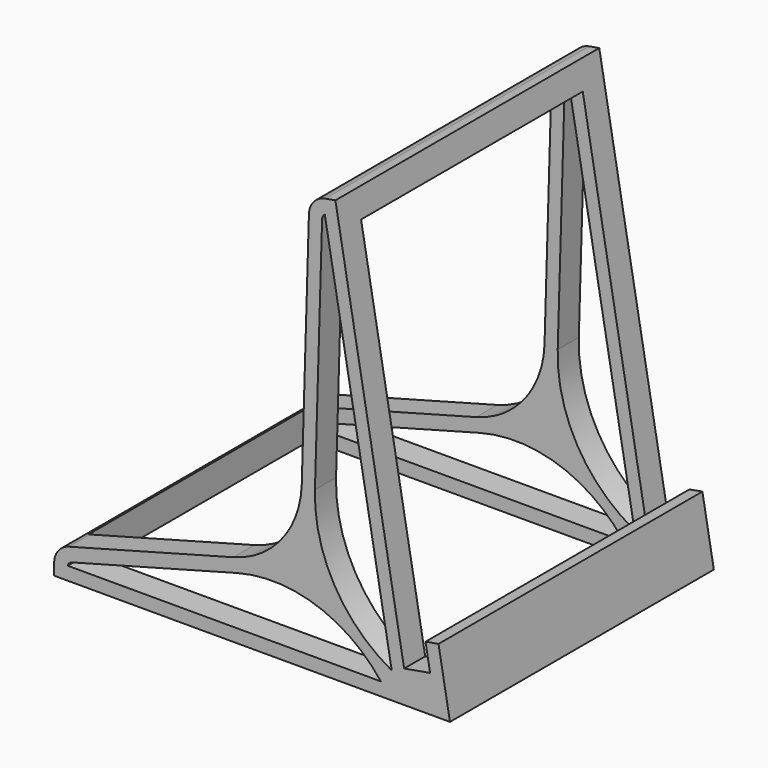
from build123d import *

# Parameters (mm, degrees)
F1_DEPTH = 125
F2_W     = 130
F2_H     = 105
F3_DEPTH = 150


with BuildPart() as f1:
    # F0 (on Front) → F1 (new body)
    with BuildSketch(Plane.XZ):
        with BuildLine():
            Line((-150, 0), (0, 0))
            Line((0, 0), (-4.341204, 24.620194))
            Line((-4.341204, 24.620194), (-9.265243, 23.751953))
            Line((-9.265243, 23.751953), (-7.528761, 13.903875))
            Line((-7.528761, 13.903875), (-17.376839, 12.167394))
            Line((-17.376839, 12.167394), (-43.424066, 159.888557))
            Line((-43.424066, 159.888557), (-47.259722, 159.212227))
            ThreePointArc((-47.259722, 159.212227), (-51.630235, 156.732134), (-53.454031, 152.049612))
            Line((-53.454031, 152.049612), (-56.167591, 61.007916))
            ThreePointArc((-56.167591, 61.007916), (-63.698077, 40.341689), (-82.071229, 28.249193))
            Line((-82.071229, 28.249193), (-144.445891, 11.492122))
            ThreePointArc((-144.445891, 11.492122), (-148.451646, 8.812712), (-150, 4.248952))
            Line((-150, 4.248952), (-150, 0))
        make_face()
        with BuildLine():
            ThreePointArc((-48.456251, 151.90065), (-48.170121, 152.98965), (-47.435141, 153.842642))
            Line((-47.435141, 153.842642), (-22.071802, 10))
            Line((-22.071802, 10), (-21.190167, 5))
            Line((-21.190167, 5), (-26.190167, 5))
            Line((-26.190167, 5), (-144.884518, 5))
            ThreePointArc((-144.884518, 5), (-144.229646, 6.054035), (-143.14863, 6.663342))
            Line((-143.14863, 6.663342), (-80.773968, 23.420413))
            ThreePointArc((-80.773968, 23.420413), (-59.77608, 37.240408), (-51.169811, 60.858954))
            Line((-51.169811, 60.858954), (-48.456251, 151.90065))
        make_face(mode=Mode.SUBTRACT)
        with BuildLine():
            Line((-21.190167, 5), (-22.071802, 10))
            ThreePointArc((-22.071802, 10), (-43.78846, 31.328636), (-51.169811, 60.858954))
            ThreePointArc((-51.169811, 60.858954), (-59.77608, 37.240408), (-80.773968, 23.420413))
            ThreePointArc((-80.773968, 23.420413), (-50.693836, 22.47236), (-26.190167, 5))
            Line((-26.190167, 5), (-21.190167, 5))
        make_face()
    extrude(amount=F1_DEPTH)

    # F2 (on face) → F3 (cut)
    with BuildSketch(Plane(origin=(0, 0, 0), x_dir=(1, 0, 0), z_dir=(0, 0, -1))):
        with Locations((-80, 62.5)):
            Rectangle(F2_W, F2_H)
    extrude(amount=-F3_DEPTH, mode=Mode.SUBTRACT)


solid = f1.part
